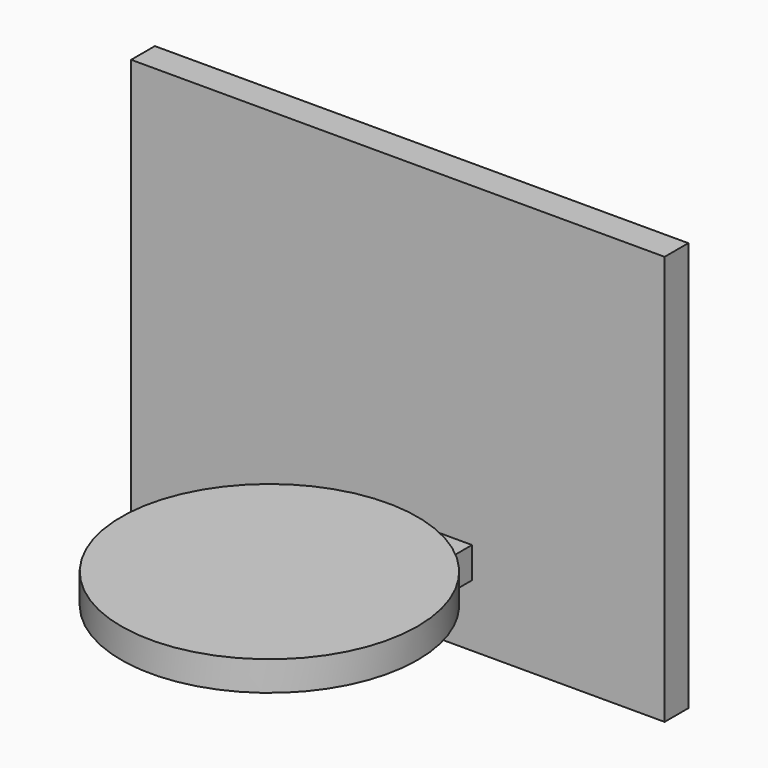
from build123d import *

# Parameters (mm, degrees)
F0_W     = 91.44
F0_H     = 70.1808394187
F1_DEPTH = 5.08
F2_W     = 25.4
F2_H     = 5.3267918489
F3_DEPTH = 10.16
F4_R     = 25.4
F5_DEPTH = 5.08
F7_DEPTH = 5.08


with BuildPart() as f1:
    # F0 (on Front) → F1 (new body)
    with BuildSketch(Plane.XZ):
        with Locations((0, 21.1718762293)):
            Rectangle(F0_W, F0_H)
    extrude(amount=F1_DEPTH)

    # F6 (on Top) → F7 (cut)
    with BuildSketch(Plane.XY):
        with BuildLine():
            ThreePointArc((21.8690727222, -32.5756610837), (15.4637696201, -17.1118914636), (0, -10.7065883615))
            Line((0, -10.7065883615), (0, -32.5756610837))
            Line((0, -32.5756610837), (0, -54.4447338059))
            ThreePointArc((0, -54.4447338059), (15.4637696201, -48.0394307038), (21.8690727222, -32.5756610837))
        make_face()
        with BuildLine():
            Line((0, -32.5756610837), (0, -10.7065883615))
            ThreePointArc((0, -10.7065883615), (-21.8690727222, -32.5756610837), (0, -54.4447338059))
            Line((0, -54.4447338059), (0, -32.5756610837))
        make_face()
    extrude(amount=-F7_DEPTH, mode=Mode.SUBTRACT)


with BuildPart() as f3:
    # F2 (on Front) → F3 (new body)
    with BuildSketch(Plane.XZ):
        with Locations((0, -0.6209677085)):
            Rectangle(F2_W, F2_H)
    extrude(amount=F3_DEPTH)

    # F4 (on Top) → F5 (join)
    with BuildSketch(Plane.XY):
        with Locations((0, -32.5985281384)):
            Circle(F4_R)
    extrude(amount=F5_DEPTH)


solid = Compound([f1.part, f3.part])
